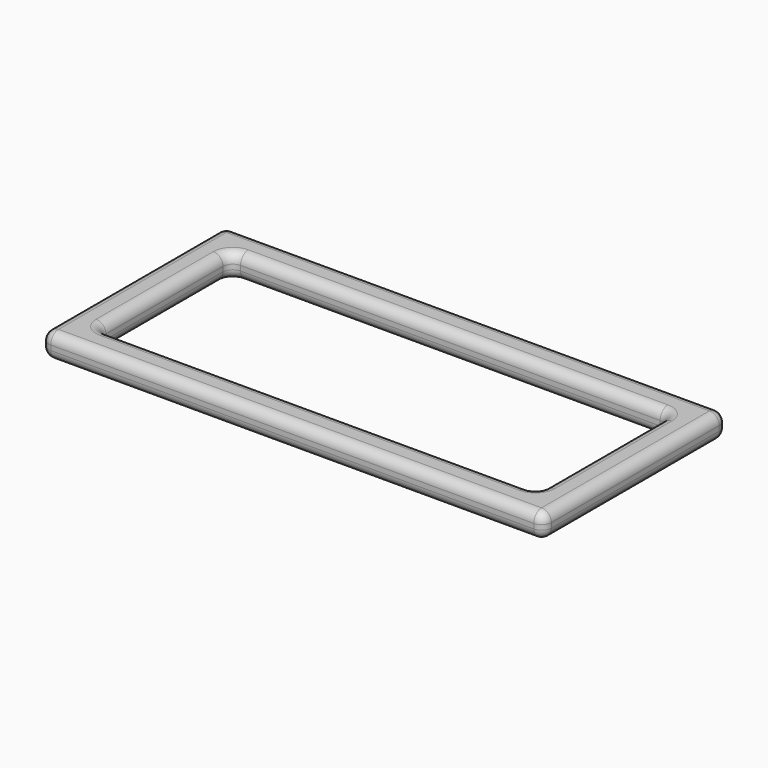
from build123d import *

# Parameters (mm, degrees)
F0_W     = 51.5
F0_H     = 23.5
F0_W_2   = 45
F0_H_2   = 17
F1_DEPTH = 2.5
F2_R     = 1


with BuildPart() as f1:
    # F0 (on Top) → F1 (new body)
    with BuildSketch(Plane.XY):
        with Locations((25.75, -11.75)):
            Rectangle(F0_W, F0_H)
        with Locations((25.75, -11.75)):
            Rectangle(F0_W_2, F0_H_2, mode=Mode.SUBTRACT)
    extrude(amount=F1_DEPTH)

    # F2
    f2_edges = [f1.edges().sort_by_distance(p)[0] for p in [
        (25.75, -23.5, 2.5),
        (25.75, -23.5, 0),
        (51.5, -23.5, 1.25),
        (51.5, -11.75, 2.5),
        (51.5, -11.75, 0),
        (48.25, -11.75, 2.5),
        (25.75, -3.25, 2.5),
        (3.25, -11.75, 2.5),
        (25.75, -20.25, 2.5),
        (25.75, 0, 2.5),
        (0, -11.75, 2.5),
        (51.5, 0, 1.25),
        (25.75, 0, 0),
        (0, 0, 1.25),
        (3.25, -20.25, 1.25),
        (25.75, -20.25, 0),
        (3.25, -3.25, 1.25),
        (3.25, -11.75, 0),
        (25.75, -3.25, 0),
        (48.25, -11.75, 0),
        (48.25, -3.25, 1.25),
        (48.25, -20.25, 1.25),
        (0, -11.75, 0),
        (0, -23.5, 1.25),
    ]]
    fillet(f2_edges, radius=F2_R)


solid = f1.part
